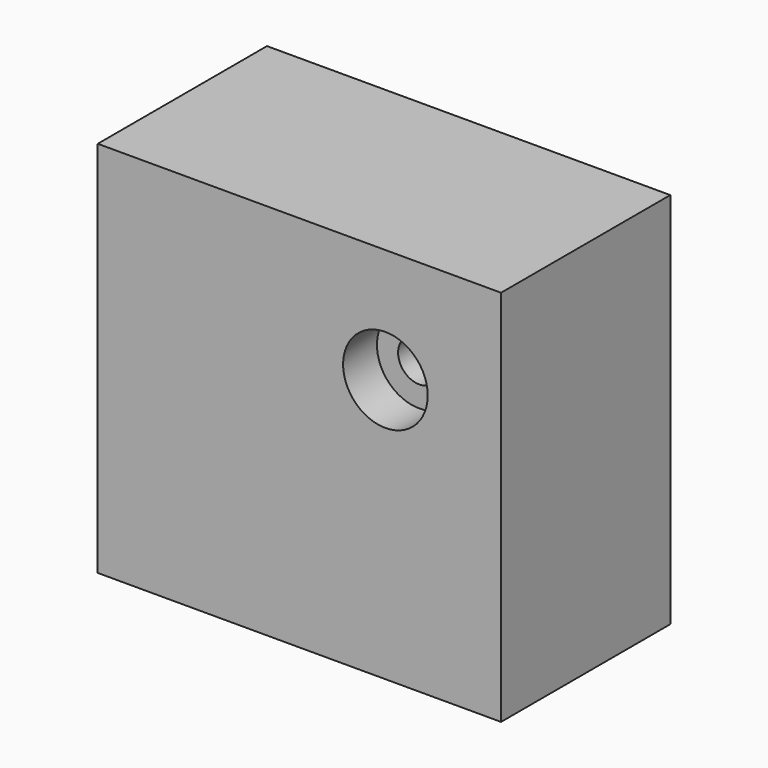
from build123d import *

# Parameters (mm, degrees)
F0_W           = 47.661982
F0_H           = 44.654008
F1_DEPTH       = 25
F3_D           = 5
F3_CBORE_D     = 10
F3_CBORE_DEPTH = 5


with BuildPart() as f1:
    # F0 (on Front) → F1 (new body)
    with BuildSketch(Plane.XZ):
        with Locations((23.830991, 22.327004)):
            Rectangle(F0_W, F0_H)
    extrude(amount=F1_DEPTH)

    # F3 (through all)
    with Locations(Plane.XZ.offset(25)):
        with Locations((33.997253, 31.13661)):
            CounterBoreHole(F3_D / 2, F3_CBORE_D / 2, F3_CBORE_DEPTH)


solid = f1.part
